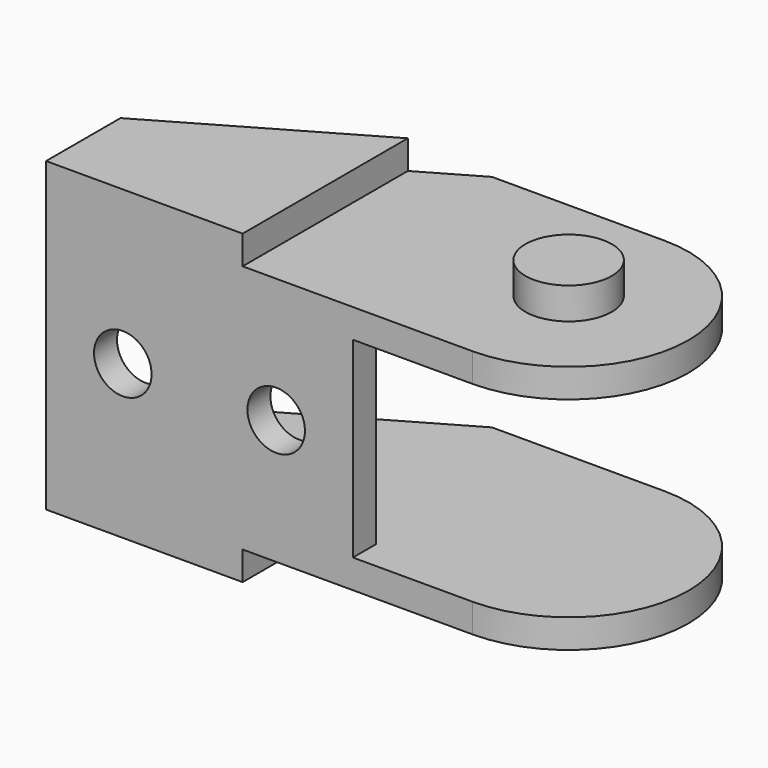
from build123d import *

# Parameters (mm, degrees)
PAD_DEPTH       = 16
SKETCH001_W     = 23.999948
SKETCH001_H     = 23.999948
POCKET_DEPTH    = 1.5
SKETCH002_W     = 23.999948
SKETCH002_H     = 23.999948
POCKET001_DEPTH = 1.5
SKETCH003_R     = 2.25
PAD001_DEPTH    = 1.65
SKETCH004_R     = 2.25
PAD002_DEPTH    = 1.65
SKETCH005_W     = 60
SKETCH005_H     = 10
POCKET002_DEPTH = 11
SKETCH006_R     = 1.5
SKETCH006_W     = 20
SKETCH006_H     = 10
POCKET003_DEPTH = 5


with BuildPart() as part:
    # Sketch → Pad (new body)
    with BuildSketch(Plane.XY):
        with BuildLine():
            ThreePointArc((2.6e-05, -6.25), (6.25, 1.3e-05), (0, 6.25))
            Line((0, 6.25), (-8.999786, 6.25))
            Line((-22.249974, -1.4), (-8.999786, 6.25))
            Line((-22.249974, -6.25), (-22.249974, -1.4))
            Line((2.6e-05, -6.25), (-22.249974, -6.25))
        make_face()
    extrude(amount=PAD_DEPTH)

    # Sketch001 → Pocket (cut)
    with BuildSketch(Plane.XY.offset(16)):
        Rectangle(SKETCH001_W, SKETCH001_H)
    extrude(amount=-POCKET_DEPTH, mode=Mode.SUBTRACT)

    # Sketch002 → Pocket001 (cut)
    with BuildSketch(Plane(origin=(0, 0, 0), x_dir=(1, 0, 0), z_dir=(0, 0, -1))):
        Rectangle(SKETCH002_W, SKETCH002_H)
    extrude(amount=-POCKET001_DEPTH, mode=Mode.SUBTRACT)

    # Sketch003 → Pad001 (new body)
    with BuildSketch(Plane.XY.offset(14.5)):
        Circle(SKETCH003_R)
    extrude(amount=PAD001_DEPTH)

    # Sketch004 → Pad002 (new body)
    with BuildSketch(Plane(origin=(0, 0, 1.5), x_dir=(1, 0, 0), z_dir=(0, 0, -1))):
        Circle(SKETCH004_R)
    extrude(amount=PAD002_DEPTH)

    # Sketch005 → Pocket002 (cut)
    with BuildSketch(Plane(origin=(0, 6.25, 0), x_dir=(-1, 0, 0), z_dir=(0, 1, 0))):
        with Locations((0, 8)):
            Rectangle(SKETCH005_W, SKETCH005_H)
    extrude(amount=-POCKET002_DEPTH, mode=Mode.SUBTRACT)

    # Sketch006 → Pocket003 (cut)
    with BuildSketch(Plane(origin=(0, -4.75, 0), x_dir=(-1, 0, 0), z_dir=(0, 1, 0))):
        with Locations((10.249974, 8)):
            Circle(SKETCH006_R)
        with Locations((18.249974, 8)):
            Circle(SKETCH006_R)
        with Locations((-3.750026, 8)):
            Rectangle(SKETCH006_W, SKETCH006_H)
    extrude(amount=-POCKET003_DEPTH, mode=Mode.SUBTRACT)


solid = part.part
